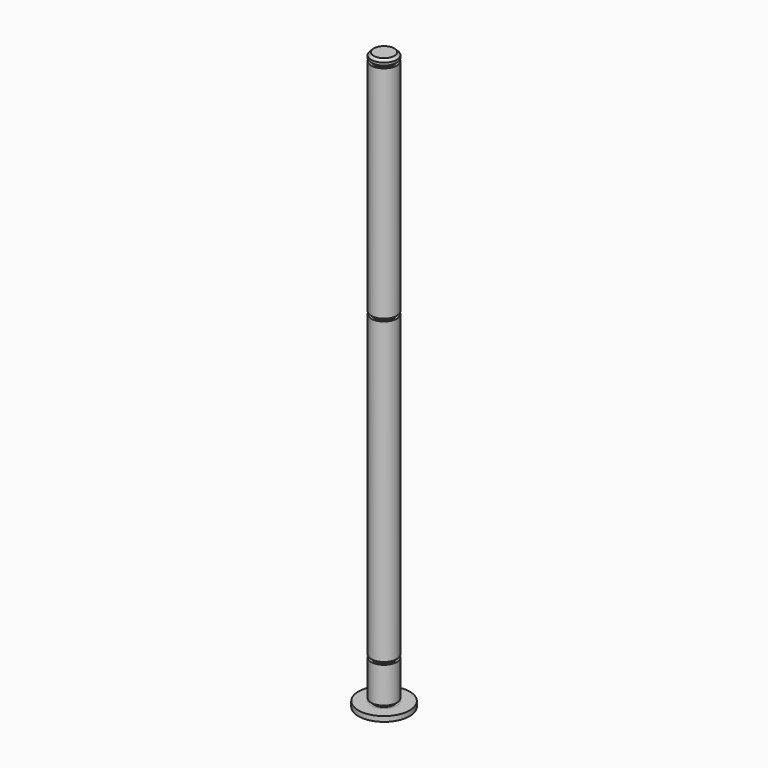
from build123d import *

# Parameters (mm, degrees)
F0_R      = 5
F1_DEPTH  = 225
F2_SIZE   = 1
F4_R      = 5
F4_R_2    = 4
F5_DEPTH  = 1
F7_R      = 5
F7_R_2    = 4
F8_DEPTH  = 1
F10_R     = 5
F10_R_2   = 4
F11_DEPTH = 1
F13_R     = 5
F13_R_2   = 4
F14_DEPTH = 1
F15_R     = 10
F15_R_2   = 5
F16_DEPTH = 2


with BuildPart() as f1:
    # F0 (on Top) → F1 (new body)
    with BuildSketch(Plane.XY):
        Circle(F0_R)
    extrude(amount=F1_DEPTH)

    # F2
    f2_edges = [f1.edges().sort_by_distance(p)[0] for p in [
        (-5, 0, 225),
        (-5, 0, 0),
    ]]
    chamfer(f2_edges, length=F2_SIZE)

    # F4 (on offset) → F5 (cut)
    with BuildSketch(Plane(origin=(0, 0, 2), x_dir=(1, 0, 0), z_dir=(0, 0, -1))):
        Circle(F4_R)
        Circle(F4_R_2, mode=Mode.SUBTRACT)
    extrude(amount=-F5_DEPTH, mode=Mode.SUBTRACT)

    # F7 (on offset) → F8 (cut)
    with BuildSketch(Plane.XY.offset(223)):
        Circle(F7_R)
        Circle(F7_R_2, mode=Mode.SUBTRACT)
    extrude(amount=-F8_DEPTH, mode=Mode.SUBTRACT)

    # F10 (on offset) → F11 (cut)
    with BuildSketch(Plane(origin=(0, 0, 17), x_dir=(1, 0, 0), z_dir=(0, 0, -1))):
        Circle(F10_R)
        Circle(F10_R_2, mode=Mode.SUBTRACT)
    extrude(amount=-F11_DEPTH, mode=Mode.SUBTRACT)

    # F13 (on offset) → F14 (cut)
    with BuildSketch(Plane(origin=(0, 0, 135), x_dir=(1, 0, 0), z_dir=(0, 0, -1))):
        Circle(F13_R)
        Circle(F13_R_2, mode=Mode.SUBTRACT)
    extrude(amount=-F14_DEPTH, mode=Mode.SUBTRACT)


with BuildPart() as f16:
    # F15 (on Top) → F16 (new body)
    with BuildSketch(Plane.XY):
        Circle(F15_R)
        Circle(F15_R_2, mode=Mode.SUBTRACT)
    extrude(amount=F16_DEPTH)


solid = Compound([f1.part, f16.part])
